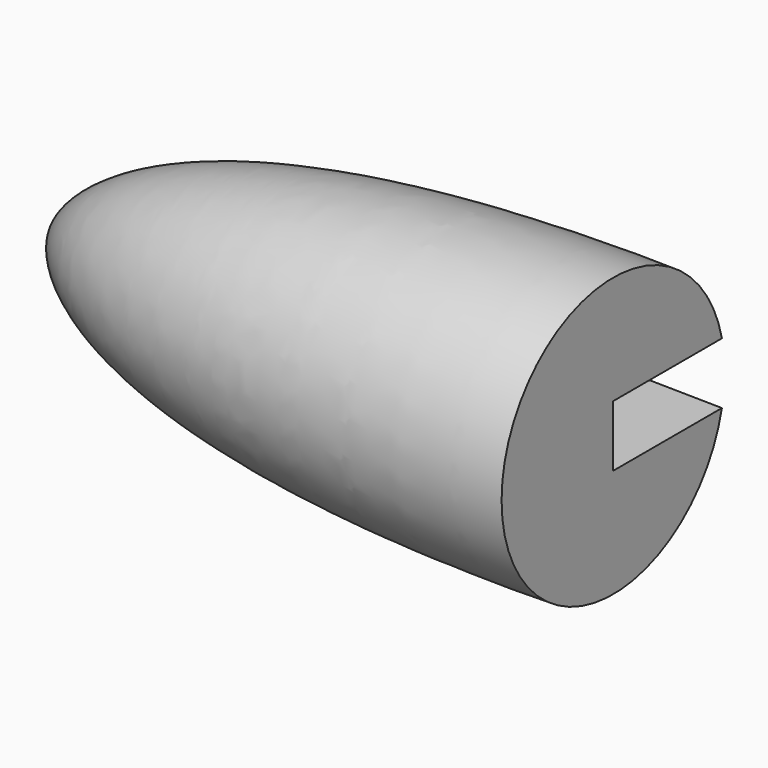
from build123d import *

# Parameters (mm, degrees)
F3_DEPTH = 38.162973


with BuildPart() as f1:
    # F0 (on Top) → F1 (revolve)
    with BuildSketch(Plane.XY):
        with BuildLine():
            Line((0, 0), (0, 38.1))
            add(Edge.make_bspline(
                [(0, 38.1), (-123.670235, 39.62896), (-150.800139, 12.474869), (-152.4, 0)],
                knots=[0, 0, 0, 0, 157.090324, 157.090324, 157.090324, 157.090324], degree=3))
            Line((-152.4, 0), (0, 0))
        make_face()
    revolve(axis=Axis((-76.2, 0, 0), (-1, 0, 0)))

    # F2 (on Front) → F3 (cut, through all)
    with BuildSketch(Plane.XZ):
        with BuildLine():
            Line((0, -8.382), (0, 0))
            Line((0, 0), (0, 8.382))
            add(Edge.make_bspline(
                [(0, 8.382), (-33.722997, 8.244888), (-78.441754, 6.911326), (-83.783343, 0)],
                knots=[0, 0, 0, 0, 84.201583, 84.201583, 84.201583, 84.201583], degree=3))
            add(Edge.make_bspline(
                [(0, -8.382), (-33.722997, -8.244888), (-78.441754, -6.911326), (-83.783343, 0)],
                knots=[0, 0, 0, 0, 84.201583, 84.201583, 84.201583, 84.201583], degree=3))
        make_face()
    extrude(amount=-F3_DEPTH, mode=Mode.SUBTRACT)


solid = f1.part
